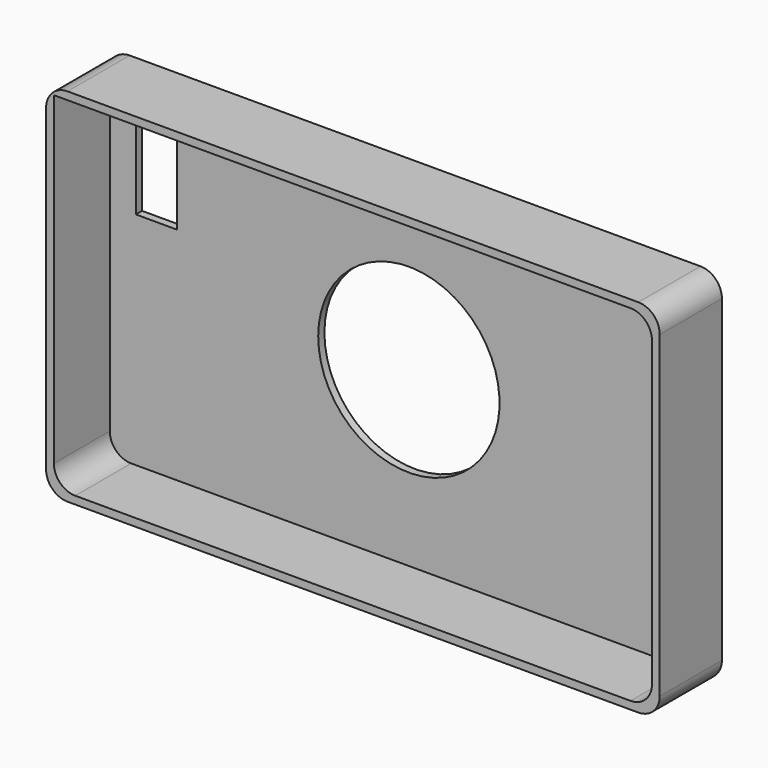
from build123d import *

# Parameters (mm, degrees)
F0_W     = 200.5350887775
F0_H     = 118.04754287
F1_DEPTH = 25.4
F2_T     = -2.54
F3_R     = 7
F4_W     = 13.4836062789
F4_H     = 26.3934414834
F5_DEPTH = 25
F6_R     = 29.6315052435
F7_DEPTH = 25


with BuildPart() as f1:
    # F0 (on Front) → F1 (new body)
    with BuildSketch(Plane.XZ):
        Rectangle(F0_W, F0_H)
    extrude(amount=F1_DEPTH)

    # F2
    f2_openings = [f1.faces().sort_by_distance(p)[0] for p in [
        (0, -25.4, 0),
    ]]
    offset(amount=F2_T, openings=f2_openings)

    # F3
    f3_edges = [f1.edges().sort_by_distance(p)[0] for p in [
        (-100.267544, -12.7, 59.023771),
        (100.267544, -12.7, 59.023771),
        (100.267544, -12.7, -59.023771),
        (-100.267544, -12.7, -59.023771),
        (97.727544, -13.97, 56.483771),
        (97.727544, -13.97, -56.483771),
        (-97.727544, -13.97, -56.483771),
    ]]
    fillet(f3_edges, radius=F3_R)

    # F4 (on face) → F5 (cut)
    with BuildSketch(Plane.XZ.offset(2.54)):
        with Locations((-82.4795104563, 28.8319671527)):
            Rectangle(F4_W, F4_H)
    extrude(amount=-F5_DEPTH, mode=Mode.SUBTRACT)

    # F6 (on face) → F7 (cut)
    with BuildSketch(Plane(origin=(0, 0, 0), x_dir=(-1, 0, 0), z_dir=(0, 1, 0))):
        Circle(F6_R)
    extrude(amount=-F7_DEPTH, mode=Mode.SUBTRACT)


solid = f1.part
